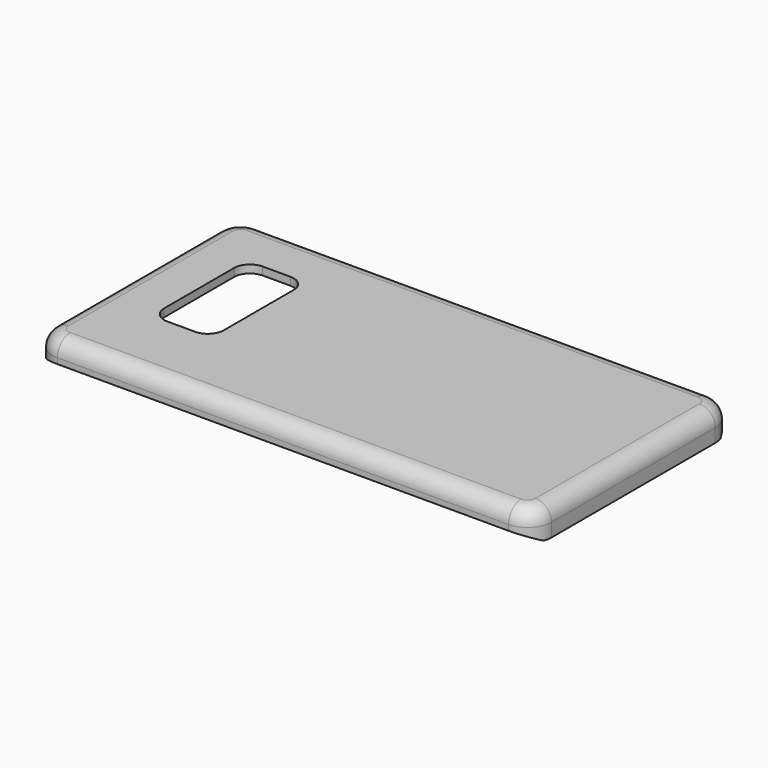
from build123d import *

# Parameters (mm, degrees)
F0_W          = 159.512
F0_H          = 80.772
F1_DEPTH      = 9.398
F2_R          = 7.62
F3_R          = 5.08
F5_DEPTH      = 79.757
F5_DEPTH_BACK = 79.757
F6_T          = -2.54
F7_W          = 19.05
F7_H          = 38.1
F8_DEPTH      = 30.48
F9_R          = 5.08


with BuildPart() as f1:
    # F0 (on Top) → F1 (new body)
    with BuildSketch(Plane.XY):
        Rectangle(F0_W, F0_H)
    extrude(amount=F1_DEPTH)

    # F2
    f2_edges = [f1.edges().sort_by_distance(p)[0] for p in [
        (79.756, -40.386, 4.699),
        (79.756, 40.386, 4.699),
        (-79.756, -40.386, 4.699),
        (-79.756, 40.386, 4.699),
    ]]
    fillet(f2_edges, radius=F2_R)

    # F3
    f3_edges = [f1.edges().sort_by_distance(p)[0] for p in [
        (79.756, 0, 9.398),
        (77.524154, -38.154154, 9.398),
        (77.524154, 38.154154, 9.398),
        (0, -40.386, 9.398),
        (0, 40.386, 9.398),
        (-77.524154, -38.154154, 9.398),
        (-77.524154, 38.154154, 9.398),
        (-79.756, 0, 9.398),
    ]]
    fillet(f3_edges, radius=F3_R)

    # F4 (on Right) → F5 (cut, two sides)
    with BuildSketch(Plane.YZ) as f5_sk:
        Polygon((35.306, 0), (40.386, 0), (40.386, 2.54), align=None)
        Polygon((-40.386, 0), (-35.306, 0), (-40.386, 2.54), align=None)
    extrude(amount=F5_DEPTH, mode=Mode.SUBTRACT)
    extrude(f5_sk.sketch, amount=-F5_DEPTH_BACK, mode=Mode.SUBTRACT)

    # F6
    f6_openings = [f1.faces().sort_by_distance(p)[0] for p in [
        (0, -37.816494, 1.255247),
        (0, 37.816494, 1.255247),
        (0, 0, 0),
    ]]
    offset(amount=F6_T, openings=f6_openings)

    # F7 (on Top) → F8 (cut)
    with BuildSketch(Plane.XY):
        with Locations((-52.451, 3.556)):
            Rectangle(F7_W, F7_H)
    extrude(amount=F8_DEPTH, mode=Mode.SUBTRACT)

    # F9
    f9_edges = [f1.edges().sort_by_distance(p)[0] for p in [
        (-61.976, -15.494, 8.128),
        (-42.926, -15.494, 8.128),
        (-61.976, 22.606, 8.128),
        (-42.926, 22.606, 8.128),
    ]]
    fillet(f9_edges, radius=F9_R)


solid = f1.part
